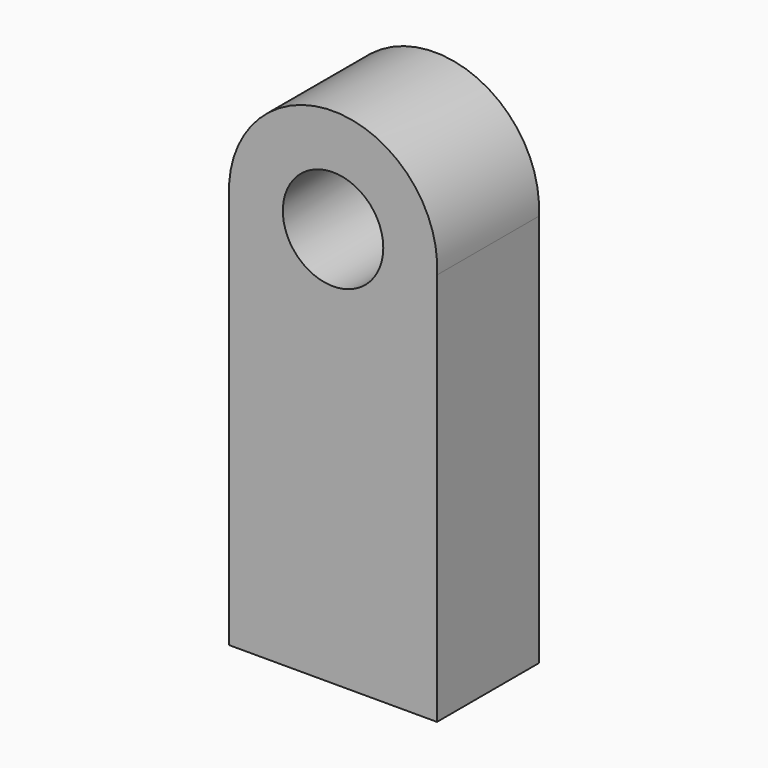
from build123d import *

# Parameters (mm, degrees)
F0_R     = 12.520333
F1_DEPTH = 31.75


with BuildPart() as f1:
    # F0 (on Front) → F1 (new body)
    with BuildSketch(Plane.XZ):
        with BuildLine():
            Line((-25.914742, -49.84694), (25.914742, -49.84694))
            Line((25.914742, -49.84694), (25.914742, 48.244783))
            ThreePointArc((25.914742, 48.244783), (0, 75.81116), (-25.914742, 48.244783))
            Line((-25.914742, 48.244783), (-25.914742, -49.84694))
        make_face()
        with Locations((0, 49.84694)):
            Circle(F0_R, mode=Mode.SUBTRACT)
    extrude(amount=-F1_DEPTH)


solid = f1.part
